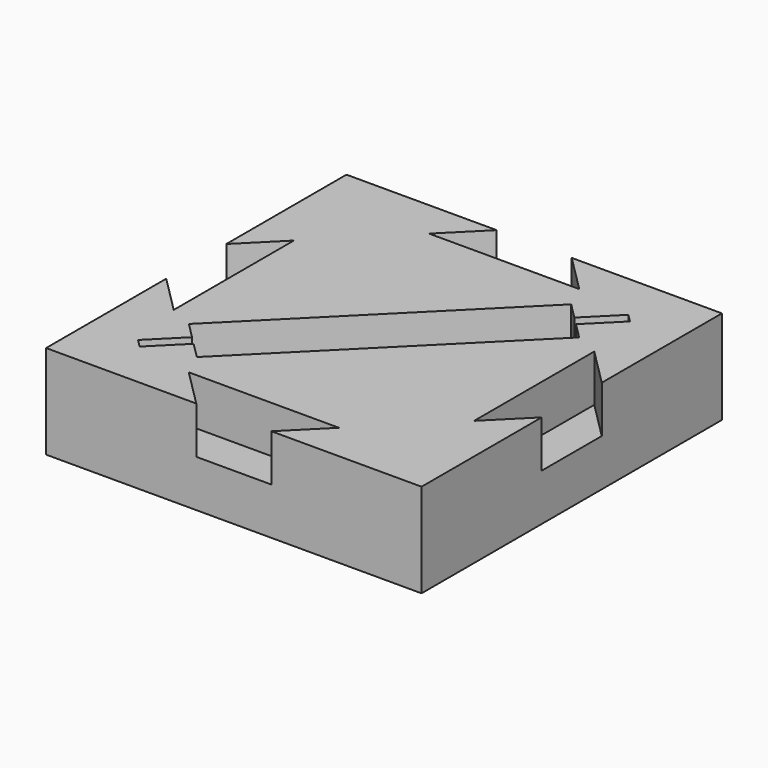
from build123d import *

# Parameters (mm, degrees)
F1_DEPTH = 5
F2_DEPTH = 2
F3_DEPTH = 3
F4_DEPTH = 2.5


with BuildPart() as f1:
    # F0 (on Top) → F1 (new body)
    with BuildSketch(Plane.XY):
        Polygon((-5.9713595426, 11.4572308195), (-13.9713595426, 11.4572308195), (-17.9713595426, 11.4572308195), (-17.9713595426, 7.4572308195), (-17.9713595426, -0.5427691805), (-17.9713595426, -2.421448837), (-16.6888739638, -1.1389632582), (-5.3751654648, 10.1747452407), (-4.0926798861, 11.4572308195), align=None)
        Polygon((-2.3956236113, 11.4572308195), (-4.0926798861, 11.4572308195), (-5.3751654648, 10.1747452407), (-4.5266373274, 9.3262171033), (-2.9283770403, 10.9244773904), align=None)
        Polygon((-3.2538451213, 8.0534248972), (-1.9713595426, 9.3359104759), (-1.9713595426, 11.0329667508), (-2.5041129716, 10.5002133217), (-4.1023732587, 8.9019530346), align=None)
        Polygon((-1.9713595426, -0.5427691805), (-1.9713595426, 7.4572308195), (-1.9713595426, 9.3359104759), (-3.2538451213, 8.0534248972), (-14.5675536203, -3.2602836018), (-15.850039199, -4.5427691805), (-13.9713595426, -4.5427691805), (-5.9713595426, -4.5427691805), (-1.9713595426, -4.5427691805), align=None)
        Polygon((-17.5470954738, -4.5427691805), (-15.850039199, -4.5427691805), (-14.5675536203, -3.2602836018), (-15.4160817577, -2.4117554644), (-17.0143420448, -4.0100157515), align=None)
        Polygon((-16.6888739638, -1.1389632582), (-17.9713595426, -2.421448837), (-17.9713595426, -4.1185051118), (-17.4386061135, -3.5857516828), (-15.8403458264, -1.9874913957), align=None)
        Polygon((-1.9713595426, 11.4572308195), (-2.3956236113, 11.4572308195), (-2.9283770403, 10.9244773904), (-2.5041129716, 10.5002133217), (-1.9713595426, 11.0329667508), align=None)
        Polygon((-17.4386061135, -3.5857516828), (-17.9713595426, -4.1185051118), (-17.9713595426, -4.5427691805), (-17.5470954738, -4.5427691805), (-17.0143420448, -4.0100157515), align=None)
        Polygon((0.0286404574, -6.5427691805), (0.0286404574, 1.4572308195), (-1.9713595426, -0.5427691805), (-1.9713595426, -4.5427691805), (-5.9713595426, -4.5427691805), (-7.9713595426, -6.5427691805), align=None)
        Polygon((0.0286404574, 13.4572308195), (-7.9713595426, 13.4572308195), (-5.9713595426, 11.4572308195), (-4.0926798861, 11.4572308195), (-2.3956236113, 11.4572308195), (-1.9713595426, 11.4572308195), (-1.9713595426, 11.0329667508), (-1.9713595426, 9.3359104759), (-1.9713595426, 7.4572308195), (0.0286404574, 5.4572308195), align=None)
        Polygon((-11.9713595426, 13.4572308195), (-19.9713595426, 13.4572308195), (-19.9713595426, 5.4572308195), (-17.9713595426, 7.4572308195), (-17.9713595426, 11.4572308195), (-13.9713595426, 11.4572308195), align=None)
        Polygon((-17.9713595426, -0.5427691805), (-19.9713595426, 1.4572308195), (-19.9713595426, -6.5427691805), (-11.9713595426, -6.5427691805), (-13.9713595426, -4.5427691805), (-15.850039199, -4.5427691805), (-17.5470954738, -4.5427691805), (-17.9713595426, -4.5427691805), (-17.9713595426, -4.1185051118), (-17.9713595426, -2.421448837), align=None)
    extrude(amount=F1_DEPTH)

    # F0 (on Top) → F2 (join)
    with BuildSketch(Plane.XY):
        Polygon((-4.5266373274, 9.3262171033), (-5.3751654648, 10.1747452407), (-16.6888739638, -1.1389632582), (-15.8403458264, -1.9874913957), (-15.4160817577, -2.4117554644), (-14.5675536203, -3.2602836018), (-3.2538451213, 8.0534248972), (-4.1023732587, 8.9019530346), align=None)
    extrude(amount=F2_DEPTH)

    # F0 (on Top) → F3 (join)
    with BuildSketch(Plane.XY):
        Polygon((-15.8403458264, -1.9874913957), (-17.4386061135, -3.5857516828), (-17.0143420448, -4.0100157515), (-15.4160817577, -2.4117554644), align=None)
        Polygon((-2.5041129716, 10.5002133217), (-2.9283770403, 10.9244773904), (-4.5266373274, 9.3262171033), (-4.1023732587, 8.9019530346), align=None)
    extrude(amount=F3_DEPTH)

    # F0 (on Top) → F4 (join)
    with BuildSketch(Plane.XY):
        Polygon((-13.9713595426, -4.5427691805), (-11.9713595426, -6.5427691805), (-7.9713595426, -6.5427691805), (-5.9713595426, -4.5427691805), align=None)
        Polygon((-17.9713595426, 7.4572308195), (-19.9713595426, 5.4572308195), (-19.9713595426, 1.4572308195), (-17.9713595426, -0.5427691805), align=None)
        Polygon((-7.9713595426, 13.4572308195), (-11.9713595426, 13.4572308195), (-13.9713595426, 11.4572308195), (-5.9713595426, 11.4572308195), align=None)
        Polygon((0.0286404574, 1.4572308195), (0.0286404574, 5.4572308195), (-1.9713595426, 7.4572308195), (-1.9713595426, -0.5427691805), align=None)
    extrude(amount=F4_DEPTH)


solid = f1.part
